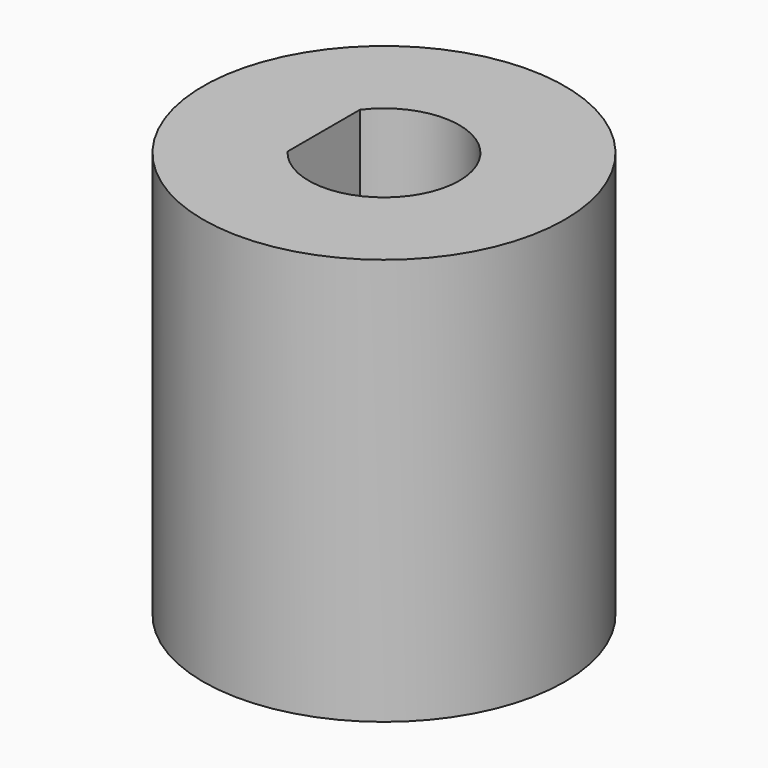
from build123d import *

# Parameters (mm, degrees)
F0_R     = 6
F1_DEPTH = 13.5
F3_R     = 2
F4_DEPTH = 5


with BuildPart() as f1:
    # F0 (on Top) → F1 (new body)
    with BuildSketch(Plane.XY):
        Circle(F0_R)
        with BuildLine():
            ThreePointArc((-2, 1.5), (2.5, 0), (-2, -1.5))
            Line((-2, -1.5), (-2, 1.5))
        make_face(mode=Mode.SUBTRACT)
    extrude(amount=F1_DEPTH)

    # F3 (on offset) → F4 (cut)
    with BuildSketch(Plane.YZ.offset(-6.5)):
        with Locations((0.0751335174, 6)):
            Circle(F3_R)
    extrude(amount=F4_DEPTH, mode=Mode.SUBTRACT)


solid = f1.part
